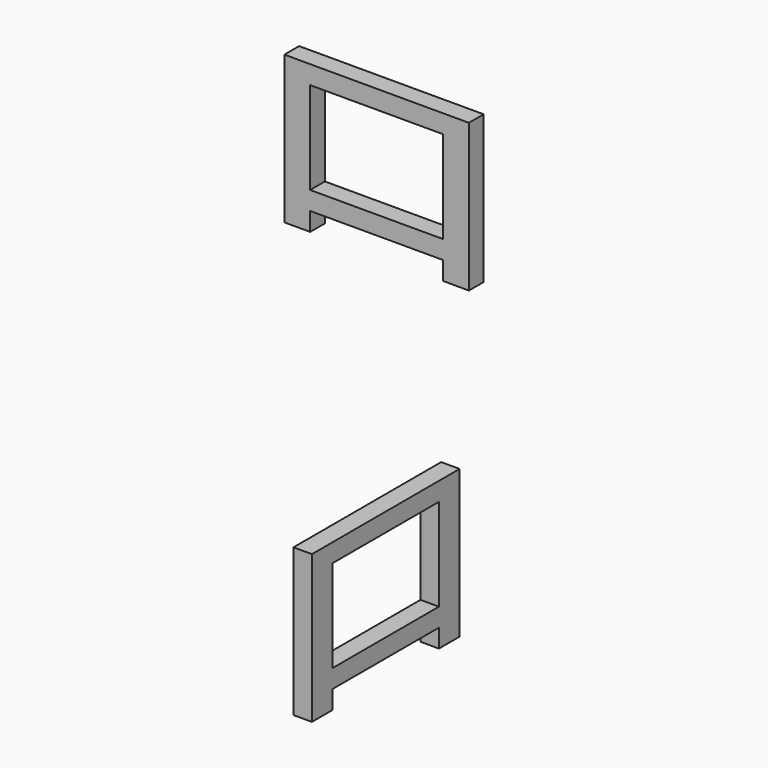
from build123d import *

# Parameters (mm, degrees)
F0_W     = 9.144
F0_H     = 1.27
F0_W_2   = 1.778
F0_H_2   = 6.35
F1_DEPTH = 0.635
F2_W     = 1.778
F2_H     = 1.27
F2_H_2   = 6.35
F2_W_2   = 9.144
F3_DEPTH = 0.635


with BuildPart() as f1:
    # F0 (on Front) → F1 (new body, symmetric)
    with BuildSketch(Plane.XZ):
        with Locations((-35.4909399968, 11.5728569476)):
            Rectangle(F0_W, F0_H)
        with Locations((-30.0299399968, 11.5728569476)):
            Rectangle(F0_W_2, F0_H)
        with Locations((-30.0299399968, 10.3028569476)):
            Rectangle(F0_W_2, F0_H)
        with Locations((-40.9519399968, 10.3028569476)):
            Rectangle(F0_W_2, F0_H)
        with Locations((-40.9519399968, 11.5728569476)):
            Rectangle(F0_W_2, F0_H)
        with Locations((-40.9519399968, 15.3828569476)):
            Rectangle(F0_W_2, F0_H_2)
        with Locations((-40.9519399968, 19.1928569476)):
            Rectangle(F0_W_2, F0_H)
        with Locations((-35.4909399968, 19.1928569476)):
            Rectangle(F0_W, F0_H)
        with Locations((-30.0299399968, 15.3828569476)):
            Rectangle(F0_W_2, F0_H_2)
        with Locations((-30.0299399968, 19.1928569476)):
            Rectangle(F0_W_2, F0_H)
    extrude(amount=F1_DEPTH, both=True)


with BuildPart() as f3:
    # F2 (on Right) → F3 (new body, symmetric)
    with BuildSketch(Plane.YZ):
        with Locations((-50.4678414211, 14.4822528243)):
            Rectangle(F2_W, F2_H)
        with Locations((-50.4678414211, 15.7522528243)):
            Rectangle(F2_W, F2_H)
        with Locations((-50.4678414211, 19.5622528243)):
            Rectangle(F2_W, F2_H_2)
        with Locations((-39.5458414211, 19.5622528243)):
            Rectangle(F2_W, F2_H_2)
        with Locations((-39.5458414211, 15.7522528243)):
            Rectangle(F2_W, F2_H)
        with Locations((-39.5458414211, 14.4822528243)):
            Rectangle(F2_W, F2_H)
        with Locations((-45.0068414211, 15.7522528243)):
            Rectangle(F2_W_2, F2_H)
        with Locations((-45.0068414211, 23.3722528243)):
            Rectangle(F2_W_2, F2_H)
        with Locations((-50.4678414211, 23.3722528243)):
            Rectangle(F2_W, F2_H)
        with Locations((-39.5458414211, 23.3722528243)):
            Rectangle(F2_W, F2_H)
    extrude(amount=F3_DEPTH, both=True)


solid = Compound([f1.part, f3.part])
